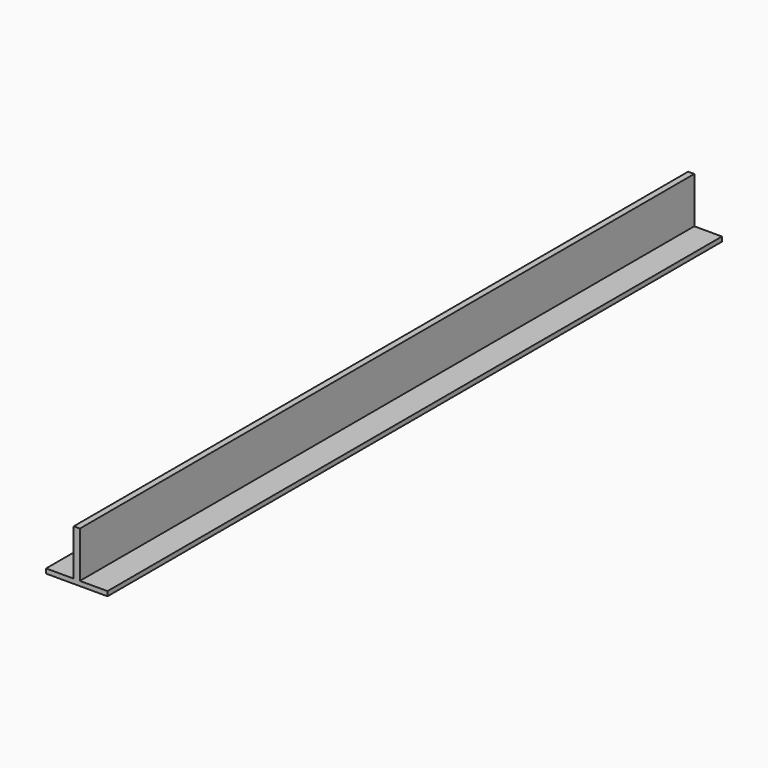
from build123d import *

# Parameters (mm, degrees)
F0_W     = 4
F0_H     = 30
F1_DEPTH = 500


with BuildPart() as f1:
    # F0 (on Front) → F1 (new body)
    with BuildSketch(Plane.XZ):
        with Locations((0, 18)):
            Rectangle(F0_W, F0_H)
        Polygon((-2, 3), (-20, 3), (-20, 0), (20, 0), (20, 3), (2, 3), align=None)
    extrude(amount=F1_DEPTH)


solid = f1.part
